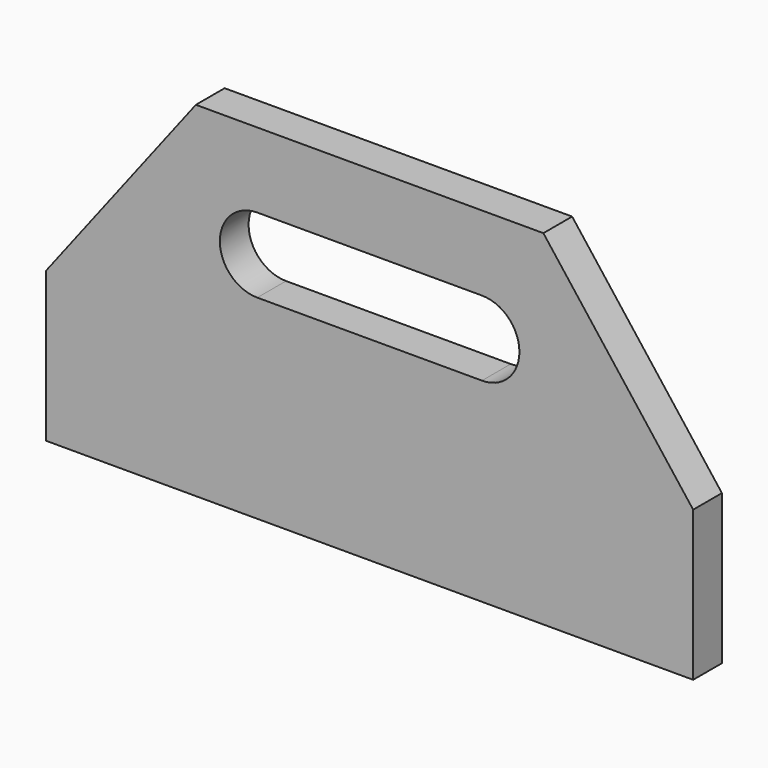
from build123d import *

# Parameters (mm, degrees)
F1_DEPTH = 6


with BuildPart() as f1:
    # F0 (on Front) → F1 (new body)
    with BuildSketch(Plane.XZ):
        Polygon((29, 65.722576), (-29, 65.722576), (-54, 33.222576), (-54, 8.222576), (54, 8.222576), (54, 33.222576), align=None)
        with BuildLine():
            ThreePointArc((-18.75, 40.722576), (-25, 46.972576), (-18.75, 53.222576))
            Line((-18.75, 53.222576), (18.75, 53.222576))
            ThreePointArc((18.75, 53.222576), (25, 46.972576), (18.75, 40.722576))
            Line((18.75, 40.722576), (-18.75, 40.722576))
        make_face(mode=Mode.SUBTRACT)
    extrude(amount=F1_DEPTH)


solid = f1.part
